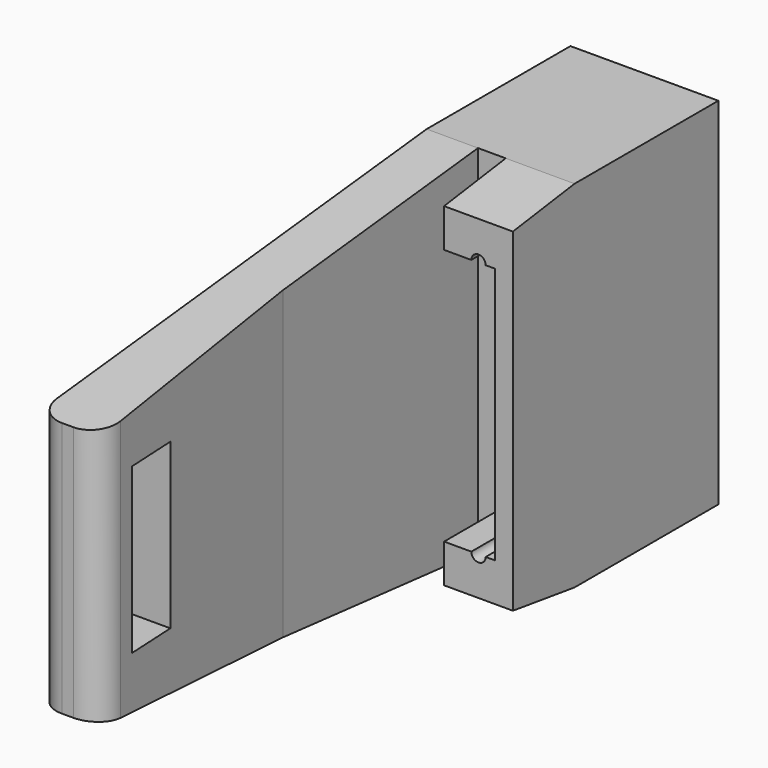
from build123d import *

# Parameters (mm, degrees)
F0_W      = 31.75
F0_H      = 43.942
F1_DEPTH  = 8.509
F3_DEPTH  = 25.4
F4_R      = 0.889
F5_DEPTH  = 31.75
F7_DEPTH  = 9.525
F9_DEPTH  = 3.429
F10_DEPTH = 6.35
F11_W     = 6.35
F11_H     = 43.942
F12_DEPTH = 60.325
F13_W     = 6.35
F13_H     = 10.16
F14_DEPTH = 6.35
F16_DEPTH = 43.942
F17_DEPTH = 25.4
F19_DEPTH = 9.525
F20_R     = 3.175
F21_R     = 3.175
F22_R     = 0.889
F23_DEPTH = 7.62


with BuildPart() as f1:
    # F0 (on Right) → F1 (new body)
    with BuildSketch(Plane.YZ):
        with Locations((15.875, -21.971)):
            Rectangle(F0_W, F0_H)
    extrude(amount=F1_DEPTH)

    # F2 (on face) → F3 (cut)
    with BuildSketch(Plane(origin=(0, 0, 0), x_dir=(0, -1, 0), z_dir=(-1, 0, 0))):
        Polygon((0, 0), (-9.525, 0), (0, -1.3335), align=None)
        Polygon((0, -43.942), (0, -42.6085), (-9.525, -43.942), align=None)
    extrude(amount=-F3_DEPTH, mode=Mode.SUBTRACT)

    # F4 (on face) → F5 (cut)
    with BuildSketch(Plane(origin=(0, 31.75, 0), x_dir=(-1, 0, 0), z_dir=(0, 1, 0))):
        with Locations((-4.2545, -37.846)):
            Circle(F4_R)
        with Locations((-4.2545, -6.096)):
            Circle(F4_R)
    extrude(amount=-F5_DEPTH, mode=Mode.SUBTRACT)

    # F6 (on face) → F7 (cut)
    with BuildSketch(Plane.XZ):
        with BuildLine():
            Line((0, -37.846), (3.3655, -37.846))
            ThreePointArc((3.3655, -37.846), (4.2545, -36.957), (5.1435, -37.846))
            Line((5.1435, -37.846), (6.2865, -37.846))
            Line((6.2865, -37.846), (6.2865, -21.971))
            Line((6.2865, -21.971), (6.2865, -6.096))
            Line((6.2865, -6.096), (5.1435, -6.096))
            ThreePointArc((5.1435, -6.096), (4.2545, -6.985), (3.3655, -6.096))
            Line((3.3655, -6.096), (0, -6.096))
            Line((0, -6.096), (0, -37.846))
        make_face()
    extrude(amount=-F7_DEPTH, mode=Mode.SUBTRACT)

    # F8 (on face) → F9 (join)
    with BuildSketch(Plane(origin=(0, 0, 0), x_dir=(0, -1, 0), z_dir=(-1, 0, 0))):
        Polygon((-9.525, -37.846), (-9.525, -6.096), (-9.525, 0), (-31.75, 0), (-31.75, -43.942), (-9.525, -43.942), align=None)
    extrude(amount=F9_DEPTH)

    # F10 (add): a face of the model
    f10_faces = [f1.faces().sort_by_distance(p)[0] for p in [
        (-3.429, 20.6375, -21.971),
    ]]
    extrude(f10_faces, amount=F10_DEPTH)

    # F11 (on face) → F12 (join)
    with BuildSketch(Plane.XZ.offset(-9.525)):
        with Locations((-6.604, -21.971)):
            Rectangle(F11_W, F11_H)
    extrude(amount=F12_DEPTH)

    # F13 (on face) → F14 (cut)
    with BuildSketch(Plane.YZ.offset(-3.429)):
        with Locations((-42.418, -27.051)):
            Rectangle(F13_W, F13_H)
        with Locations((-42.418, -16.891)):
            Rectangle(F13_W, F13_H)
    extrude(amount=-F14_DEPTH, mode=Mode.SUBTRACT)

    # F15 (on face) → F16 (join, through all)
    with BuildSketch(Plane.XY):
        Polygon((-3.429, -20.6375), (-3.429, -50.8), (-1.8415, -50.8), align=None)
    extrude(amount=-F16_DEPTH)

    # F17 (cut): a face of the model
    f17_faces = [f1.faces().sort_by_distance(p)[0] for p in [
        (-3.429, -42.418, -21.971),
    ]]
    extrude(f17_faces, amount=-F17_DEPTH, mode=Mode.SUBTRACT)

    # F18 (on face) → F19 (cut)
    with BuildSketch(Plane(origin=(-9.779, 0, 0), x_dir=(0, -1, 0), z_dir=(-1, 0, 0))):
        Polygon((-9.525, 0), (50.8, -6.4365183935), (50.8, 0), align=None)
        Polygon((50.8, -43.942), (50.8, -38.0690358579), (-9.525, -43.942), align=None)
    extrude(amount=-F19_DEPTH, mode=Mode.SUBTRACT)

    # F20
    f20_edges = [f1.edges().sort_by_distance(p)[0] for p in [
        (-1.8415, -50.8, -22.252777),
    ]]
    fillet(f20_edges, radius=F20_R)

    # F21
    f21_edges = [f1.edges().sort_by_distance(p)[0] for p in [
        (-9.779, -50.8, -22.252777),
    ]]
    fillet(f21_edges, radius=F21_R)

    # F22 (on face) → F23 (cut)
    with BuildSketch(Plane(origin=(0, 31.75, 0), x_dir=(-1, 0, 0), z_dir=(0, 1, 0))):
        with BuildLine():
            ThreePointArc((-6.7945, -6.096), (-4.2545, -8.636), (-1.7145, -6.096))
            ThreePointArc((-1.7145, -6.096), (-4.2545, -3.556), (-6.7945, -6.096))
        make_face()
        with Locations((-4.2545, -6.096)):
            Circle(F22_R, mode=Mode.SUBTRACT)
        with BuildLine():
            Line((-1.7145, -37.846), (-1.7145, -6.096))
            ThreePointArc((-1.7145, -6.096), (-4.2545, -8.636), (-6.7945, -6.096))
            Line((-6.7945, -6.096), (-6.7945, -37.846))
            ThreePointArc((-6.7945, -37.846), (-4.2545, -35.306), (-1.7145, -37.846))
        make_face()
        with BuildLine():
            ThreePointArc((-6.7945, -37.846), (-4.2545, -40.386), (-1.7145, -37.846))
            ThreePointArc((-1.7145, -37.846), (-4.2545, -35.306), (-6.7945, -37.846))
        make_face()
        with Locations((-4.2545, -37.846)):
            Circle(F22_R, mode=Mode.SUBTRACT)
    extrude(amount=-F23_DEPTH, mode=Mode.SUBTRACT)


solid = f1.part
